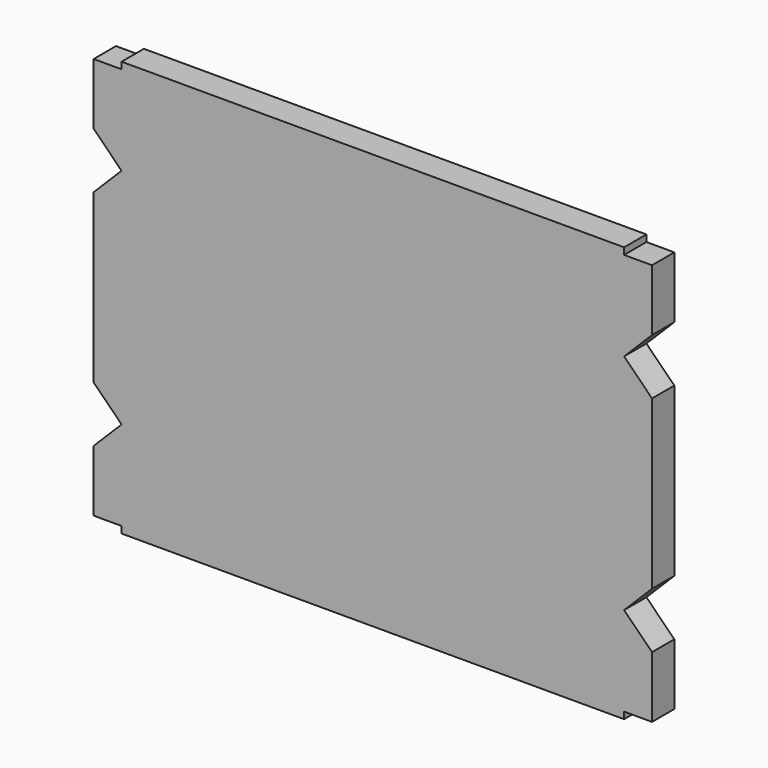
from build123d import *

# Parameters (mm, degrees)
F1_DEPTH = 25


with BuildPart() as f1:
    # F0 (on Front) → F1 (new body)
    with BuildSketch(Plane.XZ):
        Polygon((-225, -186), (225, -186), (225, -180), (250, -180), (250, -125), (225, -100), (250, -75), (250, 75), (225, 100), (250, 125), (250, 180), (225, 180), (225, 186), (-225, 186), (-225, 180), (-250, 180), (-250, 151.430458), (-250, 150), (-250, 125), (-225, 100), (-250, 75), (-250, -75), (-225, -100), (-250, -125), (-250, -180), (-225, -180), align=None)
    extrude(amount=F1_DEPTH)


solid = f1.part
